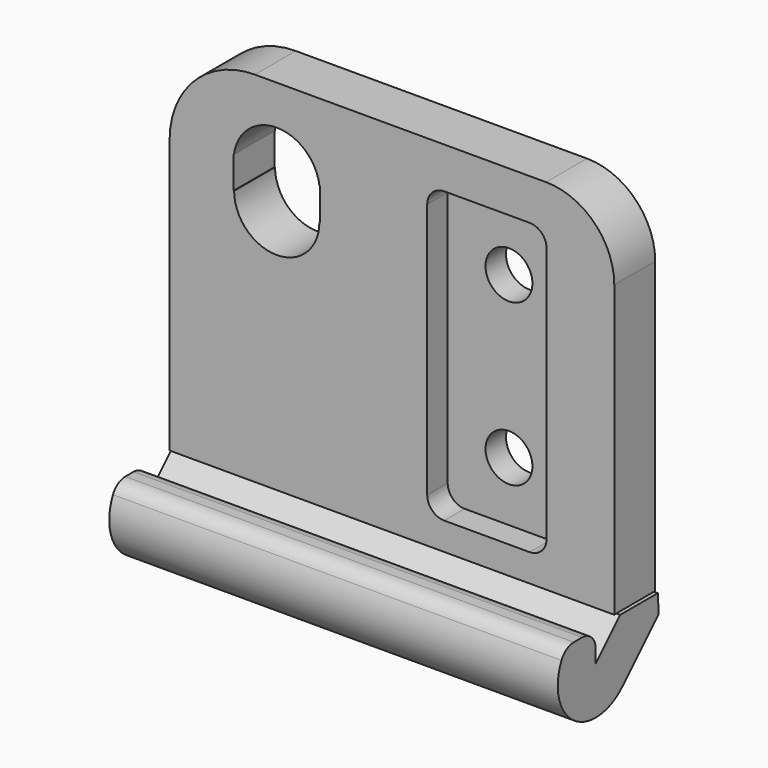
from build123d import *

# Parameters (mm, degrees)
F0_R     = 1.375
F1_DEPTH = 3
F2_R     = 1.375
F3_DEPTH = 1.5
F6_DEPTH = 26.3


with BuildPart() as f1:
    # F0 (on Front) → F1 (new body)
    with BuildSketch(Plane.XZ):
        with BuildLine():
            Line((9.087011, 12.915978), (-7.987775, 12.915978))
            ThreePointArc((-7.987775, 12.915978), (-11.523309, 11.451512), (-12.987775, 7.915978))
            Line((-12.987775, 7.915978), (-12.987775, -8.116753))
            Line((-12.987775, -8.116753), (-12.451817, -8.116753))
            Line((-12.451817, -8.116753), (13.087011, -8.116753))
            Line((13.087011, -8.116753), (13.087011, 8.915978))
            ThreePointArc((13.087011, 8.915978), (11.915438, 11.744405), (9.087011, 12.915978))
        make_face()
        with Locations((5.711206, -3.011084)):
            Circle(F0_R, mode=Mode.SUBTRACT)
        with BuildLine():
            Line((-9.236069, 8.065383), (-9.236069, 8.392912))
            Line((-9.236069, 8.392912), (-9.214787, 8.392912))
            ThreePointArc((-9.214787, 8.392912), (-6.705156, 10.596296), (-4.195525, 8.392912))
            Line((-4.195525, 8.392912), (-4.174243, 8.392912))
            Line((-4.174243, 8.392912), (-4.174243, 8.065383))
            Line((-4.174243, 8.065383), (-4.174243, 6.51706))
            Line((-4.174243, 6.51706), (-4.205156, 6.51706))
            ThreePointArc((-4.205156, 6.51706), (-6.705156, 4.01706), (-9.205156, 6.51706))
            Line((-9.205156, 6.51706), (-9.236069, 6.51706))
            Line((-9.236069, 6.51706), (-9.236069, 8.065383))
        make_face(mode=Mode.SUBTRACT)
        with Locations((5.711206, 6.427733)):
            Circle(F0_R, mode=Mode.SUBTRACT)
    extrude(amount=F1_DEPTH)

    # F2 (on face) → F3 (cut)
    with BuildSketch(Plane.XZ.offset(3)):
        with BuildLine():
            Line((8.118485, 10.503516), (3.118485, 10.503516))
            ThreePointArc((3.118485, 10.503516), (2.411378, 10.210622), (2.118485, 9.503516))
            Line((2.118485, 9.503516), (2.118485, -5.496484))
            ThreePointArc((2.118485, -5.496484), (2.411378, -6.203591), (3.118485, -6.496484))
            Line((3.118485, -6.496484), (8.118485, -6.496484))
            ThreePointArc((8.118485, -6.496484), (8.825592, -6.203591), (9.118485, -5.496484))
            Line((9.118485, -5.496484), (9.118485, 9.503516))
            ThreePointArc((9.118485, 9.503516), (8.825592, 10.210622), (8.118485, 10.503516))
        make_face()
        with Locations((5.711206, -3.011084)):
            Circle(F2_R, mode=Mode.SUBTRACT)
        with Locations((5.711206, 6.427733)):
            Circle(F2_R, mode=Mode.SUBTRACT)
    extrude(amount=-F3_DEPTH, mode=Mode.SUBTRACT)

    # F5 (on face) → F6 (join)
    with BuildSketch(Plane(origin=(-12.987775, 0, 0), x_dir=(0, -1, 0), z_dir=(-1, 0, 0))):
        with BuildLine():
            Line((0.094025, -8.107936), (0.023512, -9.205496))
            Line((0.023512, -9.205496), (2.672946, -11.868593))
            ThreePointArc((2.672946, -11.868593), (6.246579, -12.179247), (7.151377, -8.708124))
            ThreePointArc((7.151377, -8.708124), (6.782416, -8.293676), (6.249313, -8.139726))
            Line((6.249313, -8.139726), (5.643703, -8.139726))
            ThreePointArc((5.643703, -8.139726), (4.936596, -8.432619), (4.643703, -9.139726))
            Line((4.643703, -9.139726), (4.643703, -9.907948))
            Line((4.643703, -9.907948), (2.852926, -8.107936))
            Line((2.852926, -8.107936), (0.094025, -8.107936))
        make_face()
    extrude(amount=-F6_DEPTH)


solid = f1.part
